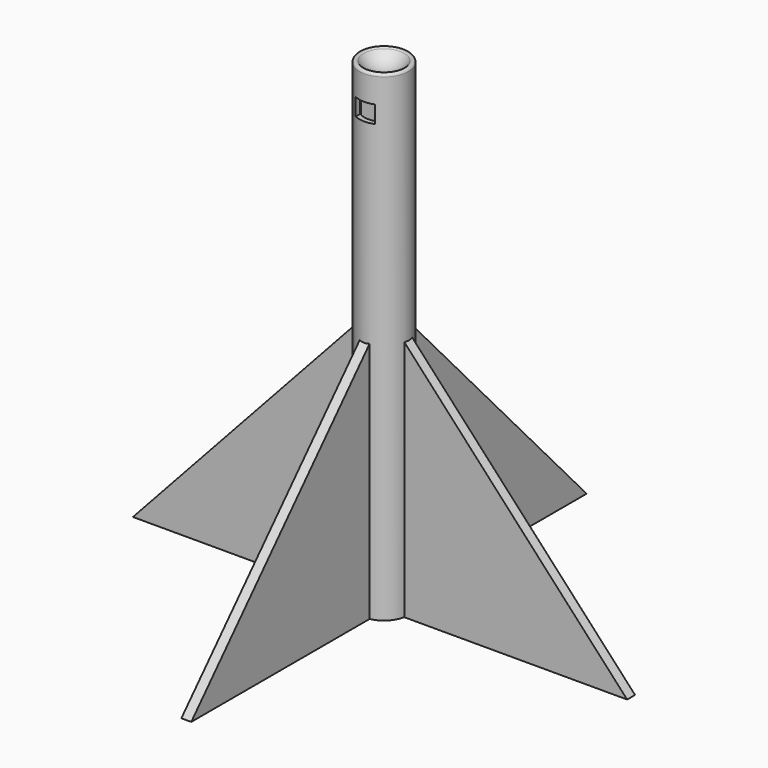
from build123d import *

# Parameters (mm, degrees)
F1_R          = 0.5
F3_DEPTH      = 1
F3_DEPTH_BACK = 1
F5_DEPTH      = 1
F5_DEPTH_BACK = 1
F7_START      = 1
F6_W          = 4
F6_H          = 3.5
F7_DEPTH      = 4


with BuildPart() as f0:
    # F8 (on Front) → F0 (revolve)
    with BuildSketch(Plane.XZ):
        with BuildLine():
            ThreePointArc((5, 100), (3.5355339059, 96.4644660941), (0, 95))
            Line((0, 95), (0, 93))
            Line((0, 93), (4, 93))
            Line((4, 93), (4, 0))
            Line((4, 0), (5, 0))
            Line((5, 0), (5, 100))
        make_face()
    revolve(axis=Axis((0, 0, 94), (0, 0, 1)))

    # F1
    f1_edges = [f0.edges().sort_by_distance(p)[0] for p in [
        (-5, 0, 100),
    ]]
    fillet(f1_edges, radius=F1_R)

    # F2 (on Front) → F3 (join, two sides)
    with BuildSketch(Plane.XZ) as f3_sk:
        Polygon((-50, 0), (50, 0), (4, 50), (4, 95), (-4, 95), (-4, 50), align=None)
    extrude(amount=F3_DEPTH)
    extrude(f3_sk.sketch, amount=-F3_DEPTH_BACK)

    # F4 (on Right) → F5 (join, two sides)
    with BuildSketch(Plane.YZ) as f5_sk:
        Polygon((-50, 0), (50, 0), (4, 50), (4, 85), (-4, 85), (-4, 50), align=None)
    extrude(amount=F5_DEPTH)
    extrude(f5_sk.sketch, amount=-F5_DEPTH_BACK)

    # F6 (on Front) → F7 (cut)
    with BuildSketch(Plane.XZ.offset(F7_START)):
        with Locations((-0.1010205144, 90.0877223398)):
            Rectangle(F6_W, F6_H)
    extrude(amount=F7_DEPTH, mode=Mode.SUBTRACT)


solid = f0.part
